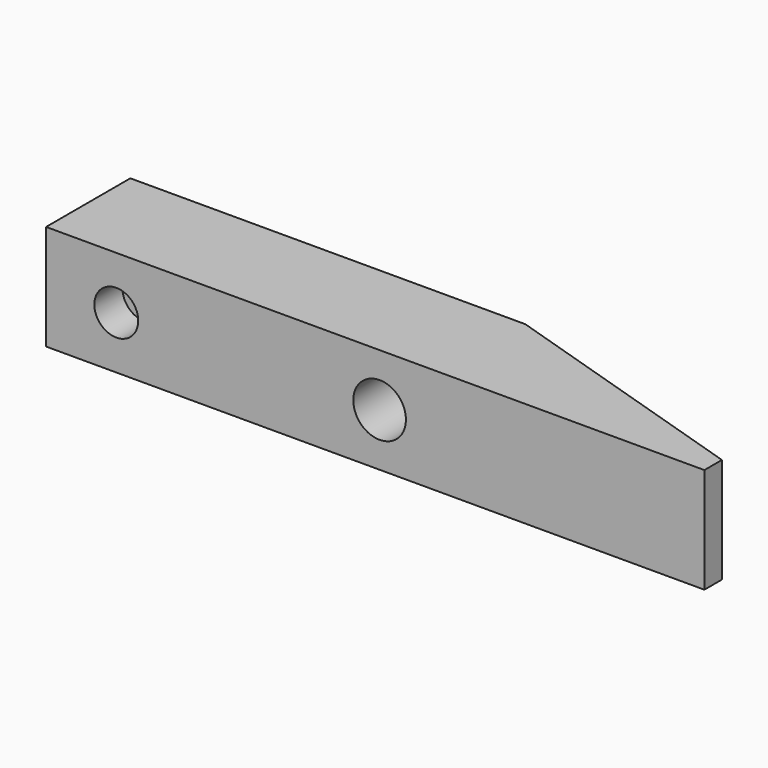
from build123d import *

# Parameters (mm, degrees)
F1_DEPTH = 12
F2_R     = 3
F3_DEPTH = 12.001
F4_R     = 2.5
F5_DEPTH = 4
F6_R     = 1.5
F7_DEPTH = 5


with BuildPart() as f1:
    # F0 (on Top) → F1 (new body)
    with BuildSketch(Plane.XY):
        Polygon((25.683252, 22.42391), (-19.316748, 22.42391), (-19.316748, 10.42391), (55.683252, 10.42391), (55.683252, 12.92391), align=None)
    extrude(amount=F1_DEPTH)

    # F2 (on face) → F3 (cut, through all)
    with BuildSketch(Plane(origin=(0, 22.42391, 0), x_dir=(-1, 0, 0), z_dir=(0, 1, 0))):
        with Locations((-18.683252, 6)):
            Circle(F2_R)
    extrude(amount=-F3_DEPTH, mode=Mode.SUBTRACT)

    # F4 (on face) → F5 (cut)
    with BuildSketch(Plane.XZ.offset(-10.42391)):
        with Locations((-11.316748, 6)):
            Circle(F4_R)
    extrude(amount=-F5_DEPTH, mode=Mode.SUBTRACT)

    # F6 (on face) → F7 (cut)
    with BuildSketch(Plane(origin=(0, 22.42391, 0), x_dir=(-1, 0, 0), z_dir=(0, 1, 0))):
        with Locations((-10.683252, 6)):
            Circle(F6_R)
    extrude(amount=-F7_DEPTH, mode=Mode.SUBTRACT)


solid = f1.part
